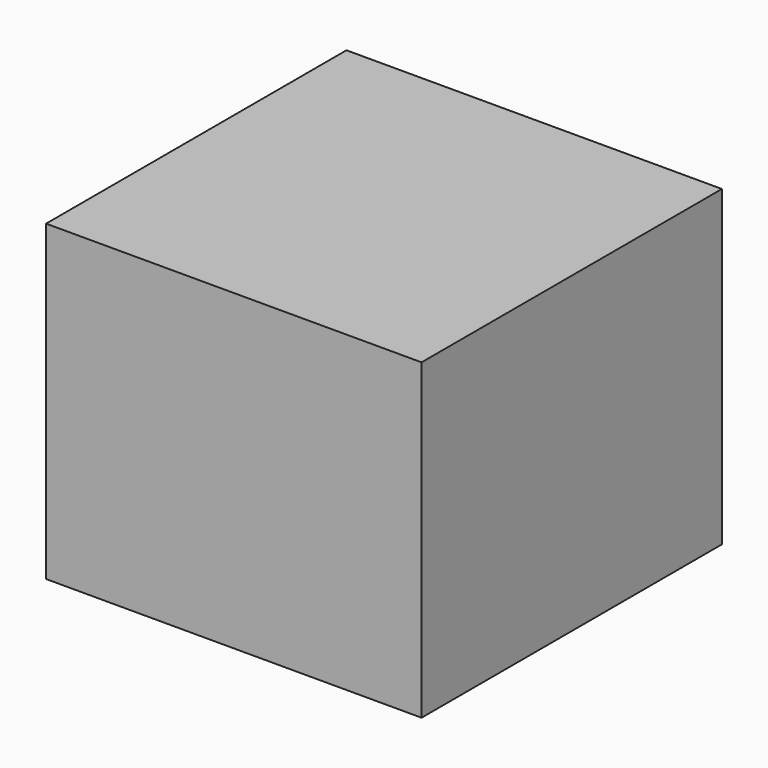
from build123d import *

# Parameters (mm, degrees)
SKETCH_W      = 60
SKETCH_H      = 60
EXTRUDE_DEPTH = 50


with BuildPart() as part:
    # Sketch → Extrude (new body)
    with BuildSketch(Plane.XY):
        with Locations((-19.991032, 9.606857)):
            Rectangle(SKETCH_W, SKETCH_H)
    extrude(amount=EXTRUDE_DEPTH)


solid = part.part
